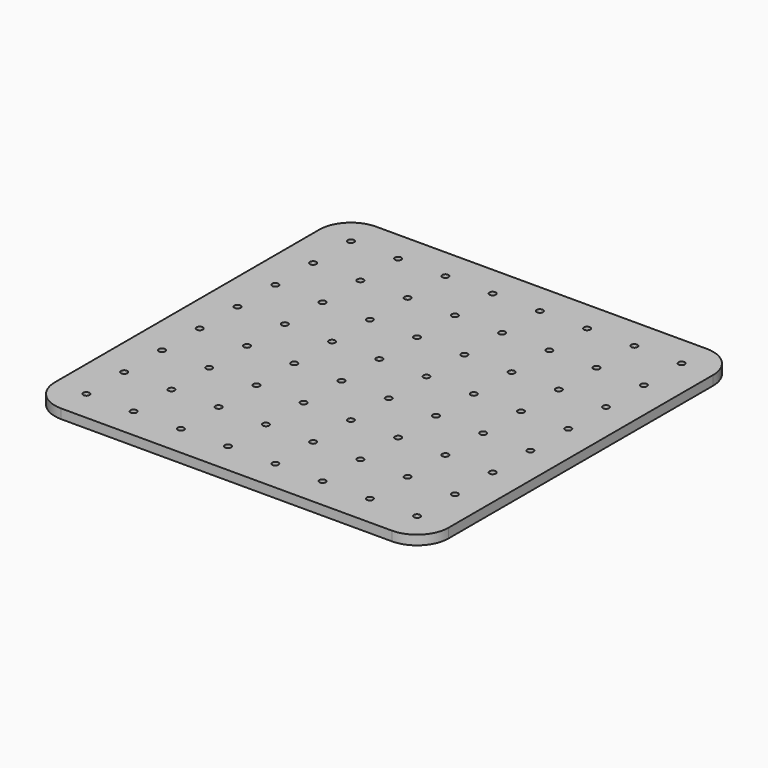
from build123d import *

# Parameters (mm, degrees)
F0_R     = 2
F1_DEPTH = 6


with BuildPart() as f1:
    # F0 (on Top) → F1 (new body)
    with BuildSketch(Plane.XY):
        with BuildLine():
            Line((105, 125), (-105, 125))
            ThreePointArc((-105, 125), (-119.142136, 119.142136), (-125, 105))
            Line((-125, 105), (-125, -105))
            ThreePointArc((-125, -105), (-119.142136, -119.142136), (-105, -125))
            Line((-105, -125), (105, -125))
            ThreePointArc((105, -125), (119.142136, -119.142136), (125, -105))
            Line((125, -105), (125, 105))
            ThreePointArc((125, 105), (119.142136, 119.142136), (105, 125))
        make_face()
        with Locations((-105, -105)):
            Circle(F0_R, mode=Mode.SUBTRACT)
        with Locations((-75, -105)):
            Circle(F0_R, mode=Mode.SUBTRACT)
        with Locations((-105, -75)):
            Circle(F0_R, mode=Mode.SUBTRACT)
        with Locations((-75, -75)):
            Circle(F0_R, mode=Mode.SUBTRACT)
        with Locations((-45, -105)):
            Circle(F0_R, mode=Mode.SUBTRACT)
        with Locations((-15, -105)):
            Circle(F0_R, mode=Mode.SUBTRACT)
        with Locations((-45, -75)):
            Circle(F0_R, mode=Mode.SUBTRACT)
        with Locations((-15, -75)):
            Circle(F0_R, mode=Mode.SUBTRACT)
        with Locations((-105, -45)):
            Circle(F0_R, mode=Mode.SUBTRACT)
        with Locations((-75, -45)):
            Circle(F0_R, mode=Mode.SUBTRACT)
        with Locations((-105, -15)):
            Circle(F0_R, mode=Mode.SUBTRACT)
        with Locations((-75, -15)):
            Circle(F0_R, mode=Mode.SUBTRACT)
        with Locations((-45, -45)):
            Circle(F0_R, mode=Mode.SUBTRACT)
        with Locations((-15, -45)):
            Circle(F0_R, mode=Mode.SUBTRACT)
        with Locations((-45, -15)):
            Circle(F0_R, mode=Mode.SUBTRACT)
        with Locations((-15, -15)):
            Circle(F0_R, mode=Mode.SUBTRACT)
        with Locations((15, -105)):
            Circle(F0_R, mode=Mode.SUBTRACT)
        with Locations((45, -105)):
            Circle(F0_R, mode=Mode.SUBTRACT)
        with Locations((15, -75)):
            Circle(F0_R, mode=Mode.SUBTRACT)
        with Locations((45, -75)):
            Circle(F0_R, mode=Mode.SUBTRACT)
        with Locations((75, -105)):
            Circle(F0_R, mode=Mode.SUBTRACT)
        with Locations((105, -105)):
            Circle(F0_R, mode=Mode.SUBTRACT)
        with Locations((75, -75)):
            Circle(F0_R, mode=Mode.SUBTRACT)
        with Locations((105, -75)):
            Circle(F0_R, mode=Mode.SUBTRACT)
        with Locations((15, -45)):
            Circle(F0_R, mode=Mode.SUBTRACT)
        with Locations((45, -45)):
            Circle(F0_R, mode=Mode.SUBTRACT)
        with Locations((15, -15)):
            Circle(F0_R, mode=Mode.SUBTRACT)
        with Locations((45, -15)):
            Circle(F0_R, mode=Mode.SUBTRACT)
        with Locations((75, -45)):
            Circle(F0_R, mode=Mode.SUBTRACT)
        with Locations((105, -45)):
            Circle(F0_R, mode=Mode.SUBTRACT)
        with Locations((75, -15)):
            Circle(F0_R, mode=Mode.SUBTRACT)
        with Locations((105, -15)):
            Circle(F0_R, mode=Mode.SUBTRACT)
        with Locations((-105, 15)):
            Circle(F0_R, mode=Mode.SUBTRACT)
        with Locations((-75, 15)):
            Circle(F0_R, mode=Mode.SUBTRACT)
        with Locations((-105, 45)):
            Circle(F0_R, mode=Mode.SUBTRACT)
        with Locations((-75, 45)):
            Circle(F0_R, mode=Mode.SUBTRACT)
        with Locations((-45, 15)):
            Circle(F0_R, mode=Mode.SUBTRACT)
        with Locations((-15, 15)):
            Circle(F0_R, mode=Mode.SUBTRACT)
        with Locations((-45, 45)):
            Circle(F0_R, mode=Mode.SUBTRACT)
        with Locations((-15, 45)):
            Circle(F0_R, mode=Mode.SUBTRACT)
        with Locations((-105, 75)):
            Circle(F0_R, mode=Mode.SUBTRACT)
        with Locations((-75, 75)):
            Circle(F0_R, mode=Mode.SUBTRACT)
        with Locations((-105, 105)):
            Circle(F0_R, mode=Mode.SUBTRACT)
        with Locations((-75, 105)):
            Circle(F0_R, mode=Mode.SUBTRACT)
        with Locations((-45, 75)):
            Circle(F0_R, mode=Mode.SUBTRACT)
        with Locations((-15, 75)):
            Circle(F0_R, mode=Mode.SUBTRACT)
        with Locations((-45, 105)):
            Circle(F0_R, mode=Mode.SUBTRACT)
        with Locations((-15, 105)):
            Circle(F0_R, mode=Mode.SUBTRACT)
        with Locations((15, 15)):
            Circle(F0_R, mode=Mode.SUBTRACT)
        with Locations((45, 15)):
            Circle(F0_R, mode=Mode.SUBTRACT)
        with Locations((15, 45)):
            Circle(F0_R, mode=Mode.SUBTRACT)
        with Locations((45, 45)):
            Circle(F0_R, mode=Mode.SUBTRACT)
        with Locations((75, 15)):
            Circle(F0_R, mode=Mode.SUBTRACT)
        with Locations((105, 15)):
            Circle(F0_R, mode=Mode.SUBTRACT)
        with Locations((75, 45)):
            Circle(F0_R, mode=Mode.SUBTRACT)
        with Locations((105, 45)):
            Circle(F0_R, mode=Mode.SUBTRACT)
        with Locations((15, 75)):
            Circle(F0_R, mode=Mode.SUBTRACT)
        with Locations((45, 75)):
            Circle(F0_R, mode=Mode.SUBTRACT)
        with Locations((15, 105)):
            Circle(F0_R, mode=Mode.SUBTRACT)
        with Locations((45, 105)):
            Circle(F0_R, mode=Mode.SUBTRACT)
        with Locations((75, 75)):
            Circle(F0_R, mode=Mode.SUBTRACT)
        with Locations((105, 75)):
            Circle(F0_R, mode=Mode.SUBTRACT)
        with Locations((75, 105)):
            Circle(F0_R, mode=Mode.SUBTRACT)
        with Locations((105, 105)):
            Circle(F0_R, mode=Mode.SUBTRACT)
    extrude(amount=F1_DEPTH)


solid = f1.part
